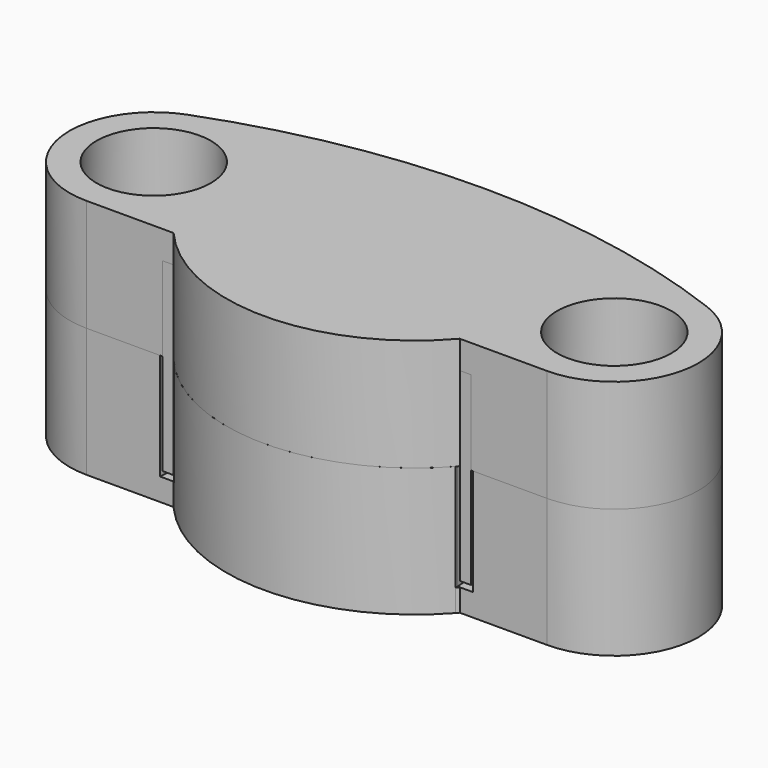
from build123d import *

# Parameters (mm, degrees)
F0_R     = 6.477
F0_R_2   = 4.8895
F1_DEPTH = 12.7
F2_R     = 4.8895
F3_DEPTH = 3.175
F5_DEPTH = 20.955
F6_R     = 4.8895
F6_R_2   = 5.3975
F7_DEPTH = 14.605
F9_DEPTH = 2.54


with BuildPart() as f1:
    # F0 (on Top) → F1 (new body)
    with BuildSketch(Plane.XY):
        with BuildLine():
            ThreePointArc((-17.46631, 0), (0, 17.46631), (17.46631, 0))
            Line((17.46631, 0), (26.067616, 0))
            ThreePointArc((26.067616, 0), (35.43728, 7.811812), (29.438114, 18.433724))
            ThreePointArc((29.438114, 18.433724), (0, 23.81631), (-29.438114, 18.433724))
            ThreePointArc((-29.438114, 18.433724), (-35.43728, 7.811812), (-26.067616, 0))
            Line((-26.067616, 0), (-17.46631, 0))
        make_face()
        with Locations((-26.067616, 9.525)):
            Circle(F0_R, mode=Mode.SUBTRACT)
        with Locations((26.067616, 9.525)):
            Circle(F0_R, mode=Mode.SUBTRACT)
        with BuildLine():
            ThreePointArc((-16.19631, 0), (0, -7.4295), (16.19631, 0))
            ThreePointArc((16.19631, 0), (0, 16.19631), (-16.19631, 0))
        make_face()
        Circle(F0_R_2, mode=Mode.SUBTRACT)
    extrude(amount=F1_DEPTH)

    # F2 (on face) → F3 (join)
    with BuildSketch(Plane.XY.offset(12.7)):
        with BuildLine():
            ThreePointArc((17.46631, 0), (0, 17.46631), (-17.46631, 0))
            Line((-17.46631, 0), (-16.19631, 0))
            ThreePointArc((-16.19631, 0), (0, 16.19631), (16.19631, 0))
            Line((16.19631, 0), (17.46631, 0))
        make_face()
        Circle(F2_R)
    extrude(amount=-F3_DEPTH)


with BuildPart() as f5:
    # F4 (on face) → F5 (new body)
    with BuildSketch(Plane(origin=(0, 0, 9.525), x_dir=(1, 0, 0), z_dir=(0, 0, -1))):
        with BuildLine():
            ThreePointArc((-17.46631, 0), (0, -17.46631), (17.46631, 0))
            Line((17.46631, 0), (16.19631, 0))
            ThreePointArc((16.19631, 0), (0, -16.19631), (-16.19631, 0))
            Line((-16.19631, 0), (-17.46631, 0))
        make_face()
    extrude(amount=F5_DEPTH)


with BuildPart() as f7:
    # F6 (on face) → F7 (new body)
    with BuildSketch(Plane(origin=(0, 0, 0), x_dir=(1, 0, 0), z_dir=(0, 0, -1))):
        with BuildLine():
            ThreePointArc((29.438114, -18.433724), (35.43728, -7.811812), (26.067616, 0))
            Line((26.067616, 0), (17.72031, 0))
            ThreePointArc((17.72031, 0), (0, -17.72031), (-17.72031, 0))
            Line((-17.72031, 0), (-26.067616, 0))
            ThreePointArc((-26.067616, 0), (-35.43728, -7.811812), (-29.438114, -18.433724))
            ThreePointArc((-29.438114, -18.433724), (0, -23.81631), (29.438114, -18.433724))
        make_face()
        with Locations((-26.067616, -9.525)):
            Circle(F6_R, mode=Mode.SUBTRACT)
        with Locations((26.067616, -9.525)):
            Circle(F6_R, mode=Mode.SUBTRACT)
        with BuildLine():
            Line((15.94231, 0), (15.94231, 0.289802))
            ThreePointArc((15.94231, 0.289802), (0, 7.4295), (-15.94231, 0.289802))
            Line((-15.94231, 0.289802), (-15.94231, 0))
            ThreePointArc((-15.94231, 0), (0, -15.94231), (15.94231, 0))
        make_face()
        Circle(F6_R_2, mode=Mode.SUBTRACT)
    extrude(amount=F7_DEPTH)

    # F8 (on face) → F9 (join)
    with BuildSketch(Plane(origin=(0, 0, -14.605), x_dir=(1, 0, 0), z_dir=(0, 0, -1))):
        with BuildLine():
            Line((-16.19631, 0), (-17.46631, 0))
            Line((-17.46631, 0), (-26.067616, 0))
            ThreePointArc((-26.067616, 0), (-35.43728, -7.811812), (-29.438114, -18.433724))
            ThreePointArc((-29.438114, -18.433724), (0, -23.81631), (29.438114, -18.433724))
            ThreePointArc((29.438114, -18.433724), (35.43728, -7.811812), (26.067616, 0))
            Line((26.067616, 0), (16.19631, 0))
            ThreePointArc((16.19631, 0), (0, 7.4295), (-16.19631, 0))
        make_face()
    extrude(amount=-F9_DEPTH)


solid = Compound([f1.part, f5.part, f7.part])
